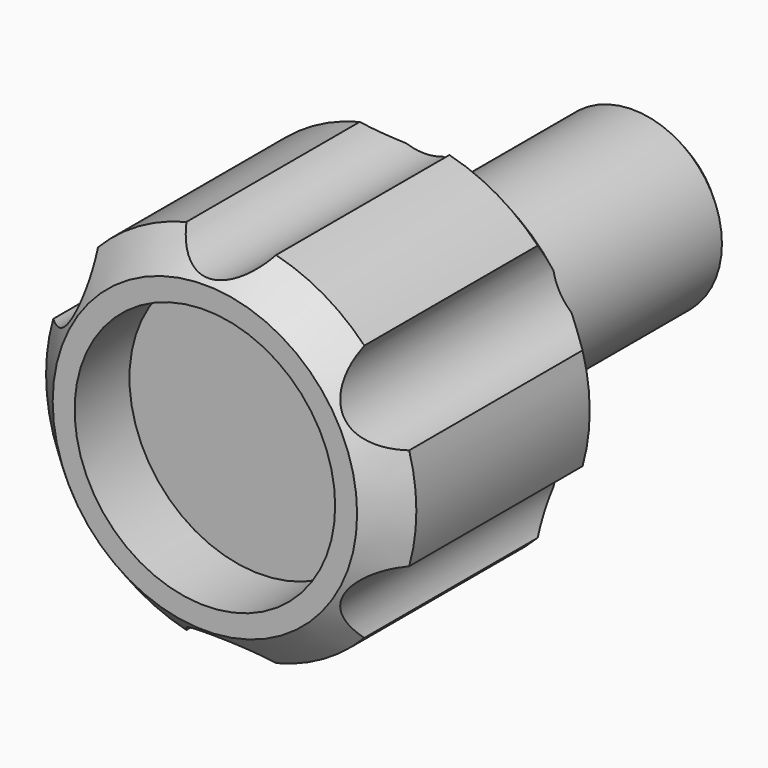
from build123d import *

# Parameters (mm, degrees)
F0_R      = 17.145
F5_DEPTH  = 25.4
F1_R      = 8.255
F6_DEPTH  = 25.4
F2_R      = 2.413
F7_DEPTH  = 25.4
F9_SIZE   = 3.048
F10_SIZE  = 2.286
F8_R      = 5.08
F11_DEPTH = 25.4
F4_R      = 12.065
F12_DEPTH = 6.35
F13_SIZE  = 1.27


with BuildPart() as f5:
    # F0 (on Front) → F5 (new body)
    with BuildSketch(Plane.XZ):
        Circle(F0_R)
    extrude(amount=F5_DEPTH)

    # F1 (on Front) → F6 (join)
    with BuildSketch(Plane.XZ):
        Circle(F1_R)
    extrude(amount=-F6_DEPTH)

    # F2 (on Front) → F7 (cut)
    with BuildSketch(Plane.XZ):
        Circle(F2_R)
    extrude(amount=-F7_DEPTH, mode=Mode.SUBTRACT)

    # F9
    f9_edges = [f5.edges().sort_by_distance(p)[0] for p in [
        (-17.145, -25.4, 0),
    ]]
    chamfer(f9_edges, length=F9_SIZE)

    # F10
    f10_edges = [f5.edges().sort_by_distance(p)[0] for p in [
        (-17.145, 0, 0),
        (-8.255, 0, 0),
    ]]
    chamfer(f10_edges, length=F10_SIZE)

    # F8 (on Front) → F11 (cut)
    with BuildSketch(Plane.XZ):
        with Locations((0, 19.5638593286)):
            Circle(F8_R)
        with Locations((-16.9427991747, 9.7819296643)):
            Circle(F8_R)
        with Locations((-16.9427991747, -9.7819296643)):
            Circle(F8_R)
        with Locations((0, -19.5638593286)):
            Circle(F8_R)
        with Locations((16.9427991747, -9.7819296643)):
            Circle(F8_R)
        with Locations((16.9427991747, 9.7819296643)):
            Circle(F8_R)
    extrude(amount=F11_DEPTH, mode=Mode.SUBTRACT)

    # F4 (on offset) → F12 (cut)
    with BuildSketch(Plane.XZ.offset(25.4)):
        Circle(F4_R)
    extrude(amount=-F12_DEPTH, mode=Mode.SUBTRACT)

    # F13
    f13_edges = [f5.edges().sort_by_distance(p)[0] for p in [
        (-8.255, 25.4, 0),
    ]]
    chamfer(f13_edges, length=F13_SIZE)


solid = f5.part
